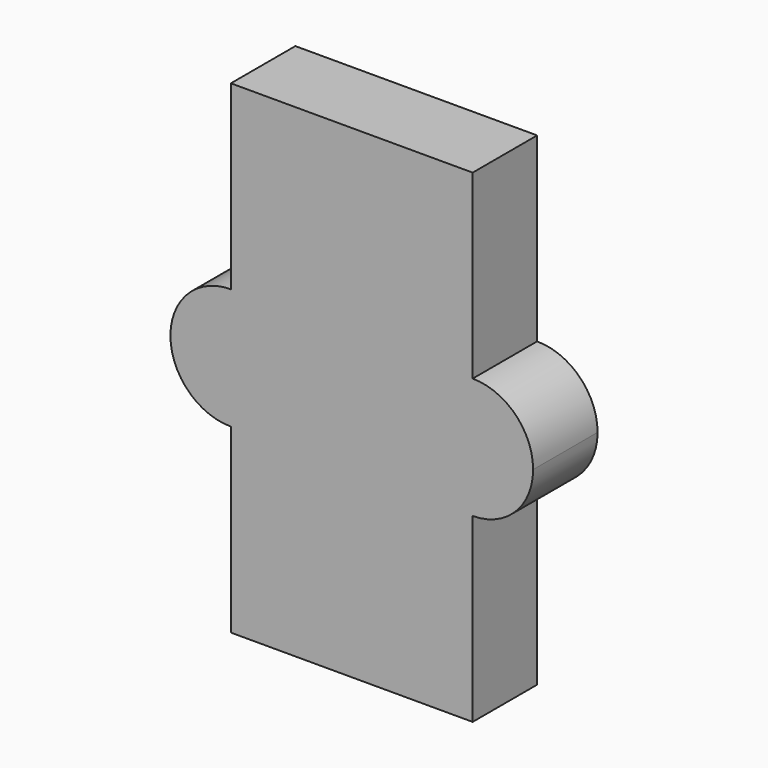
from build123d import *

# Parameters (mm, degrees)
F1_DEPTH = 25.4


with BuildPart() as f1:
    # F0 (on Front) → F1 (new body)
    with BuildSketch(Plane.XZ):
        with BuildLine():
            Line((38.1, 19.05), (38.1, 76.2))
            Line((38.1, 76.2), (-38.1, 76.2))
            Line((-38.1, 76.2), (-38.1, 19.05))
            ThreePointArc((-38.1, 19.05), (-24.6296158184, 13.4703841816), (-19.05, 0))
            ThreePointArc((-19.05, 0), (-24.6296158184, -13.4703841816), (-38.1, -19.05))
            Line((-38.1, -19.05), (-38.1, -76.2))
            Line((-38.1, -76.2), (38.1, -76.2))
            Line((38.1, -76.2), (38.1, -19.05))
            ThreePointArc((38.1, -19.05), (19.05, 0), (38.1, 19.05))
        make_face()
        with BuildLine():
            ThreePointArc((57.15, 0), (51.5703841816, 13.4703841816), (38.1, 19.05))
            Line((38.1, 19.05), (38.1, -19.05))
            ThreePointArc((38.1, -19.05), (51.5703841816, -13.4703841816), (57.15, 0))
        make_face()
        with BuildLine():
            Line((38.1, -19.05), (38.1, 19.05))
            ThreePointArc((38.1, 19.05), (19.05, 0), (38.1, -19.05))
        make_face()
        with BuildLine():
            ThreePointArc((-19.05, 0), (-24.6296158184, 13.4703841816), (-38.1, 19.05))
            Line((-38.1, 19.05), (-38.1, -19.05))
            ThreePointArc((-38.1, -19.05), (-24.6296158184, -13.4703841816), (-19.05, 0))
        make_face()
        with BuildLine():
            Line((-38.1, -19.05), (-38.1, 19.05))
            ThreePointArc((-38.1, 19.05), (-57.15, 0), (-38.1, -19.05))
        make_face()
    extrude(amount=-F1_DEPTH)


solid = f1.part
